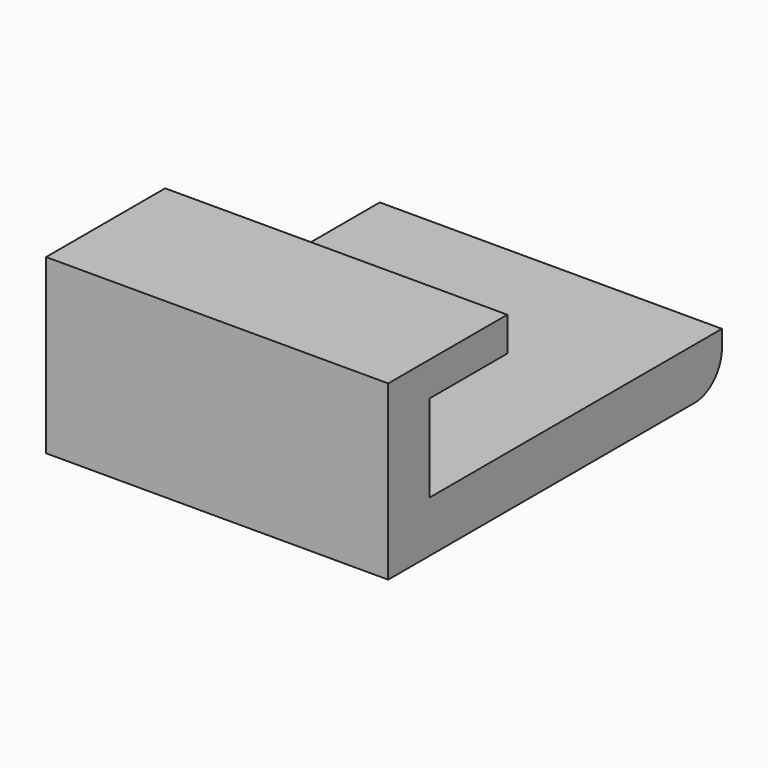
from build123d import *

# Parameters (mm, degrees)
F1_DEPTH = 20


with BuildPart() as f1:
    # F0 (on Right) → F1 (new body)
    with BuildSketch(Plane.YZ):
        with BuildLine():
            Line((-23.957143, -5.842857), (-1.575925, -5.842857))
            ThreePointArc((-1.575925, -5.842857), (-0.161711, -5.257071), (0.424075, -3.842857))
            Line((0.424075, -3.842857), (0.424075, -2.842857))
            Line((0.424075, -2.842857), (-20.957143, -2.842857))
            Line((-20.957143, -2.842857), (-20.957143, 2.257143))
            Line((-20.957143, 2.257143), (-15.257143, 2.257143))
            Line((-15.257143, 2.257143), (-15.257143, 4.257143))
            Line((-15.257143, 4.257143), (-23.957143, 4.257143))
            Line((-23.957143, 4.257143), (-23.957143, -5.842857))
        make_face()
    extrude(amount=F1_DEPTH)


solid = f1.part
